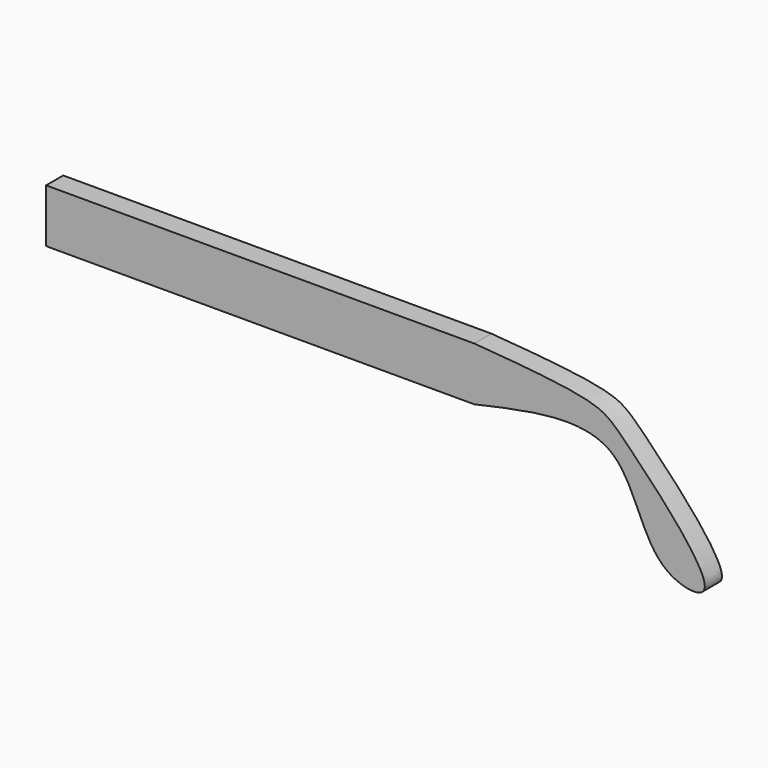
from build123d import *

# Parameters (mm, degrees)
F0_W     = 101.6
F0_H     = 12.7
F1_DEPTH = 5.08


with BuildPart() as f1:
    # F0 (on Front) → F1 (new body)
    with BuildSketch(Plane.XZ):
        Rectangle(F0_W, F0_H)
        with BuildLine():
            add(Edge.make_bspline(
                [(50.8, 6.35), (61.8529948747, 5.4788054211), (79.7514781213, 4.068050983), (85.9942221528, -1.5493212966), (114.1212185556, -30.9127767834), (90.9547209561, -27.4330215642), (87.5747242582, 1.9619629353), (63.7243904773, -3.4287801465), (50.8, -6.35)],
                knots=[0, 0, 0, 0, 0.1908985587, 0.3091284031, 0.5067924075, 0.6201799001, 0.7941771663, 1, 1, 1, 1], degree=3))
            Line((50.8, 6.35), (50.8, -6.35))
        make_face()
    extrude(amount=F1_DEPTH)


solid = f1.part
